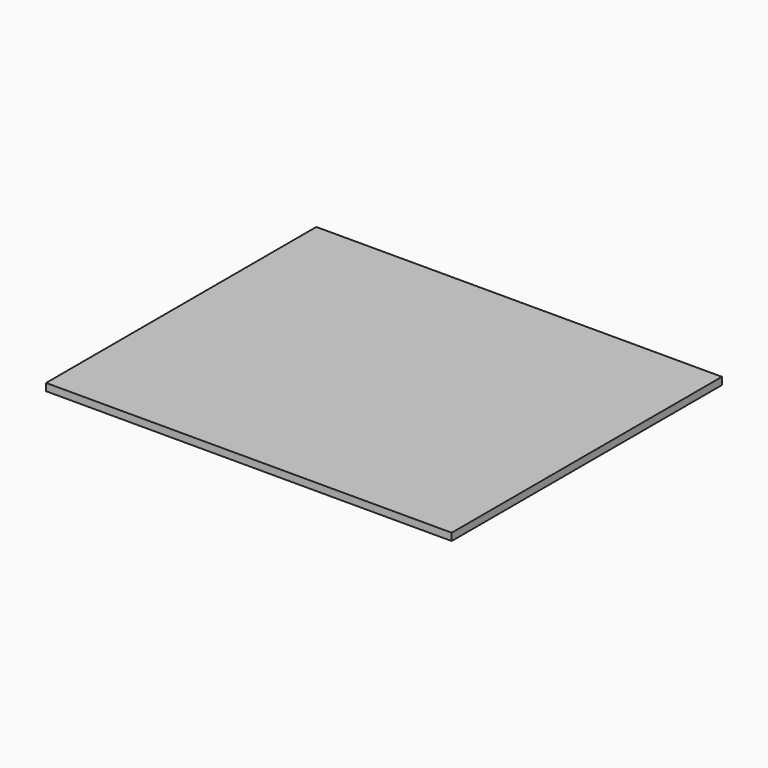
from build123d import *

# Parameters (mm, degrees)
SKETCH_W  = 702.8
SKETCH_H  = 585.3
PAD_DEPTH = 12.7


with BuildPart() as part:
    # Sketch → Pad (new body)
    with BuildSketch(Plane.XY):
        with Locations((351.4, 292.65)):
            Rectangle(SKETCH_W, SKETCH_H)
    extrude(amount=PAD_DEPTH)


solid = part.part
